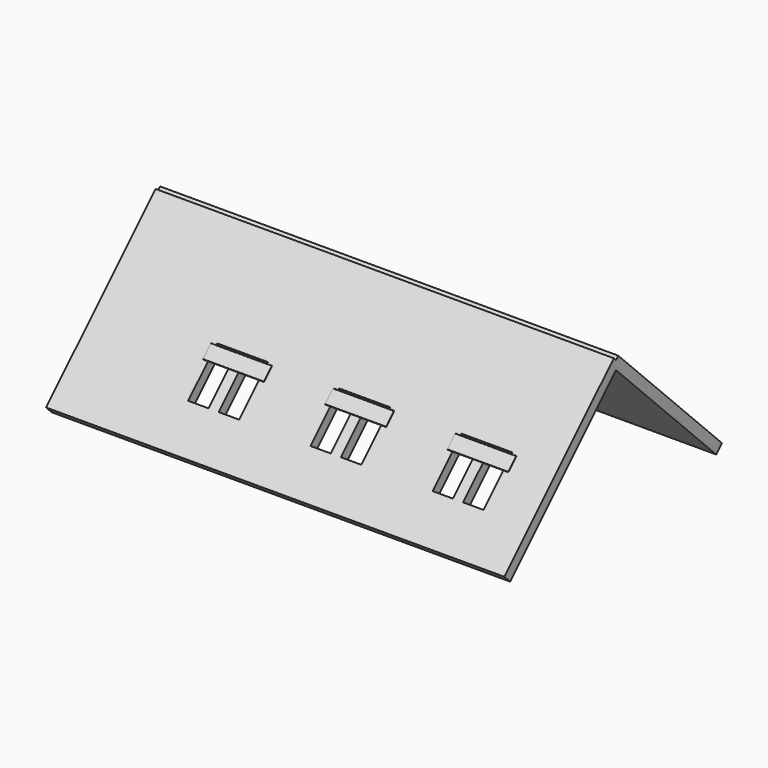
from build123d import *

# Parameters (mm, degrees)
BOX139_W               = 12
BOX139_H               = 16
BOX139_DEPTH           = 23
BOX139_PLACEMENT_ANGLE = 45
BOX141_W               = 6
BOX141_H               = 1
BOX141_DEPTH           = 1
BOX140_W               = 1
BOX140_H               = 1
BOX140_DEPTH           = 5
BOX140_PLACEMENT_ANGLE = 45
BOX136_W               = 12
BOX136_H               = 16
BOX136_DEPTH           = 23
BOX136_PLACEMENT_ANGLE = 45
BOX137_W               = 6
BOX137_H               = 1
BOX137_DEPTH           = 1
BOX138_W               = 1
BOX138_H               = 1
BOX138_DEPTH           = 5
BOX138_PLACEMENT_ANGLE = 45
BOX130_W               = 5
BOX130_H               = 16
BOX130_DEPTH           = 5
BOX130_PLACEMENT_ANGLE = 45
BOX131_W               = 5
BOX131_H               = 16
BOX131_DEPTH           = 5
BOX131_PLACEMENT_ANGLE = 45
BOX129_W               = 5
BOX129_H               = 16
BOX129_DEPTH           = 5
BOX129_PLACEMENT_ANGLE = 45
BOX034_W               = 45
BOX034_H               = 1
BOX034_DEPTH           = 19
BOX034_PLACEMENT_ANGLE = 45
BOX035_W               = 45
BOX035_H               = 1
BOX035_DEPTH           = 18
BOX035_PLACEMENT_ANGLE = 45
BOX142_W               = 12
BOX142_H               = 16
BOX142_DEPTH           = 23
BOX142_PLACEMENT_ANGLE = 45
BOX144_W               = 6
BOX144_H               = 1
BOX144_DEPTH           = 1
BOX143_W               = 1
BOX143_H               = 1
BOX143_DEPTH           = 5
BOX143_PLACEMENT_ANGLE = 45


with BuildPart() as box139:
    # Box139 → Box139 (new body)
    with BuildSketch(Plane.XY):
        with Locations((6, 8)):
            Rectangle(BOX139_W, BOX139_H)
    extrude(amount=BOX139_DEPTH)


with BuildPart() as box139_1:
    # Box139 placement: moved
    add(box139.part.moved(Location((22, -11.36, 22.5))).rotate(Axis((22, -11.36, 22.5), (-1, 0, 0)), BOX139_PLACEMENT_ANGLE))


with BuildPart() as cut052:
    # Box141 → Box141 (new body)
    with BuildSketch(Plane(origin=(23, 11, 22.2), x_dir=(1, 0, 0), z_dir=(0, 0, 1))):
        with Locations((3, 0.5)):
            Rectangle(BOX141_W, BOX141_H)
    extrude(amount=BOX141_DEPTH)

    # Cut052: cut Box139
    add(box139_1.part, mode=Mode.SUBTRACT)


with BuildPart() as cut052_1:
    # Cut052 placement: moved
    add(cut052.part.moved(Location((-12, -6.5, -5.7))))


with BuildPart() as fusion068:
    # Box140 → Box140 (new body)
    with BuildSketch(Plane.XY):
        with Locations((0.5, 0.5)):
            Rectangle(BOX140_W, BOX140_H)
    extrude(amount=BOX140_DEPTH)


with BuildPart() as fusion068_1:
    # Box140 placement: moved
    add(fusion068.part.moved(Location((13.5, 2, 14))).rotate(Axis((13.5, 2, 14), (-1, 0, 0)), BOX140_PLACEMENT_ANGLE))

    # Fusion068: union Cut052
    add(cut052_1.part)


with BuildPart() as fusion068_2:
    # Fusion068 placement: moved
    add(fusion068_1.part.moved(Location((12, 0, 0))))


with BuildPart() as box136:
    # Box136 → Box136 (new body)
    with BuildSketch(Plane.XY):
        with Locations((6, 8)):
            Rectangle(BOX136_W, BOX136_H)
    extrude(amount=BOX136_DEPTH)


with BuildPart() as box136_1:
    # Box136 placement: moved
    add(box136.part.moved(Location((22, -11.36, 22.5))).rotate(Axis((22, -11.36, 22.5), (-1, 0, 0)), BOX136_PLACEMENT_ANGLE))


with BuildPart() as cut051:
    # Box137 → Box137 (new body)
    with BuildSketch(Plane(origin=(23, 11, 22.2), x_dir=(1, 0, 0), z_dir=(0, 0, 1))):
        with Locations((3, 0.5)):
            Rectangle(BOX137_W, BOX137_H)
    extrude(amount=BOX137_DEPTH)

    # Cut051: cut Box136
    add(box136_1.part, mode=Mode.SUBTRACT)


with BuildPart() as cut051_1:
    # Cut051 placement: moved
    add(cut051.part.moved(Location((-12, -6.5, -5.7))))


with BuildPart() as fusion067:
    # Box138 → Box138 (new body)
    with BuildSketch(Plane.XY):
        with Locations((0.5, 0.5)):
            Rectangle(BOX138_W, BOX138_H)
    extrude(amount=BOX138_DEPTH)


with BuildPart() as fusion067_1:
    # Box138 placement: moved
    add(fusion067.part.moved(Location((13.5, 2, 14))).rotate(Axis((13.5, 2, 14), (-1, 0, 0)), BOX138_PLACEMENT_ANGLE))

    # Fusion067: union Cut051
    add(cut051_1.part)


with BuildPart() as box130:
    # Box130 → Box130 (new body)
    with BuildSketch(Plane.XY):
        with Locations((2.5, 8)):
            Rectangle(BOX130_W, BOX130_H)
    extrude(amount=BOX130_DEPTH)


with BuildPart() as box130_1:
    # Box130 placement: moved
    add(box130.part.moved(Location((35.5, -6.36, 22.5))).rotate(Axis((35.5, -6.36, 22.5), (-1, 0, 0)), BOX130_PLACEMENT_ANGLE))


with BuildPart() as box131:
    # Box131 → Box131 (new body)
    with BuildSketch(Plane.XY):
        with Locations((2.5, 8)):
            Rectangle(BOX131_W, BOX131_H)
    extrude(amount=BOX131_DEPTH)


with BuildPart() as box131_1:
    # Box131 placement: moved
    add(box131.part.moved(Location((11.5, -6.36, 22.5))).rotate(Axis((11.5, -6.36, 22.5), (-1, 0, 0)), BOX131_PLACEMENT_ANGLE))


with BuildPart() as box129:
    # Box129 → Box129 (new body)
    with BuildSketch(Plane.XY):
        with Locations((2.5, 8)):
            Rectangle(BOX129_W, BOX129_H)
    extrude(amount=BOX129_DEPTH)


with BuildPart() as box129_1:
    # Box129 placement: moved
    add(box129.part.moved(Location((23.5, -6.36, 22.5))).rotate(Axis((23.5, -6.36, 22.5), (-1, 0, 0)), BOX129_PLACEMENT_ANGLE))


with BuildPart() as box034:
    # Box034 → Box034 (new body)
    with BuildSketch(Plane.XY):
        with Locations((22.5, 0.5)):
            Rectangle(BOX034_W, BOX034_H)
    extrude(amount=BOX034_DEPTH)


with BuildPart() as box034_1:
    # Box034 placement: moved
    add(box034.part.moved(Location((0, -1, 11))).rotate(Axis((0, -1, 11), (-1, 0, 0)), BOX034_PLACEMENT_ANGLE))


with BuildPart() as cut048:
    # Box035 → Box035 (new body)
    with BuildSketch(Plane.XY):
        with Locations((22.5, 0.5)):
            Rectangle(BOX035_W, BOX035_H)
    extrude(amount=BOX035_DEPTH)


with BuildPart() as cut048_1:
    # Box035 placement: moved
    add(cut048.part.moved(Location((0, 25, 11))).rotate(Axis((0, 25, 11), (1, 0, 0)), BOX035_PLACEMENT_ANGLE))

    # Fusion059: union Box034
    add(box034_1.part)

    # Cut046: cut Box129
    add(box129_1.part, mode=Mode.SUBTRACT)

    # Cut047: cut Box131
    add(box131_1.part, mode=Mode.SUBTRACT)

    # Cut048: cut Box130
    add(box130_1.part, mode=Mode.SUBTRACT)


with BuildPart() as box142:
    # Box142 → Box142 (new body)
    with BuildSketch(Plane.XY):
        with Locations((6, 8)):
            Rectangle(BOX142_W, BOX142_H)
    extrude(amount=BOX142_DEPTH)


with BuildPart() as box142_1:
    # Box142 placement: moved
    add(box142.part.moved(Location((22, -11.36, 22.5))).rotate(Axis((22, -11.36, 22.5), (-1, 0, 0)), BOX142_PLACEMENT_ANGLE))


with BuildPart() as cut053:
    # Box144 → Box144 (new body)
    with BuildSketch(Plane(origin=(23, 11, 22.2), x_dir=(1, 0, 0), z_dir=(0, 0, 1))):
        with Locations((3, 0.5)):
            Rectangle(BOX144_W, BOX144_H)
    extrude(amount=BOX144_DEPTH)

    # Cut053: cut Box142
    add(box142_1.part, mode=Mode.SUBTRACT)


with BuildPart() as cut053_1:
    # Cut053 placement: moved
    add(cut053.part.moved(Location((-12, -6.5, -5.7))))


with BuildPart() as fusion070:
    # Box143 → Box143 (new body)
    with BuildSketch(Plane.XY):
        with Locations((0.5, 0.5)):
            Rectangle(BOX143_W, BOX143_H)
    extrude(amount=BOX143_DEPTH)


with BuildPart() as fusion070_1:
    # Box143 placement: moved
    add(fusion070.part.moved(Location((13.5, 2, 14))).rotate(Axis((13.5, 2, 14), (-1, 0, 0)), BOX143_PLACEMENT_ANGLE))

    # Fusion069: union Cut053
    add(cut053_1.part)


with BuildPart() as fusion070_2:
    # Fusion069 placement: moved
    add(fusion070_1.part.moved(Location((24, 0, 0))))

    # Fusion070: union Fusion068, Fusion067, Cut048
    add(fusion068_2.part)
    add(fusion067_1.part)
    add(cut048_1.part)


solid = fusion070_2.part
